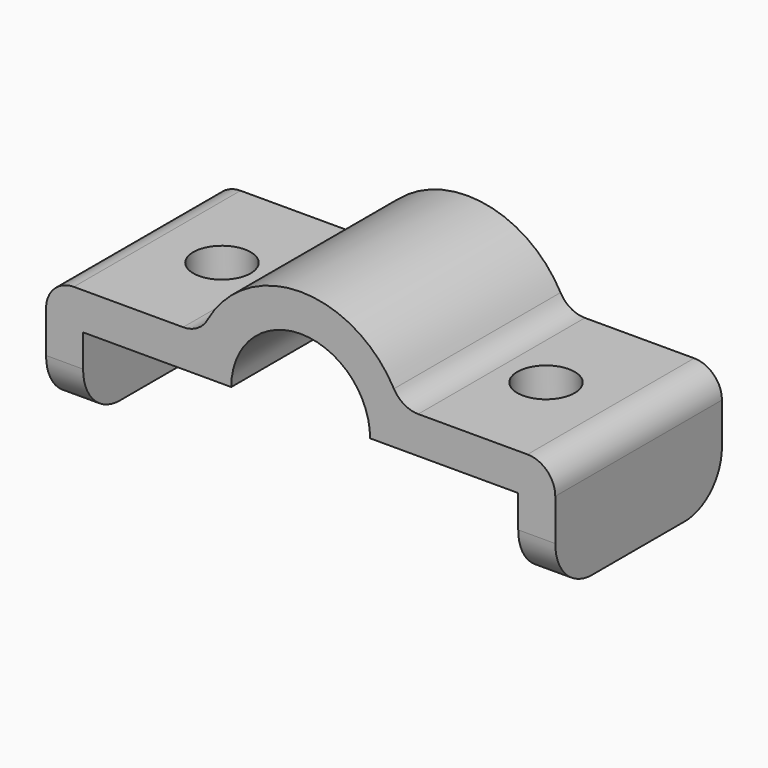
from build123d import *

# Parameters (mm, degrees)
F1_DEPTH = 28.575
F2_R     = 12.7
F3_R     = 7.874
F4_DEPTH = 10.16


with BuildPart() as f1:
    # F0 (on Front) → F1 (new body, symmetric)
    with BuildSketch(Plane.XZ):
        with BuildLine():
            ThreePointArc((-19.05, 0), (0, 19.05), (19.05, 0))
            Line((19.05, 0), (59.69, 0))
            Line((59.69, 0), (59.69, -21.59))
            Line((59.69, -21.59), (69.85, -21.59))
            Line((69.85, -21.59), (69.85, 2.54))
            ThreePointArc((69.85, 2.54), (67.618154, 7.928154), (62.23, 10.16))
            Line((62.23, 10.16), (32.254, 10.16))
            ThreePointArc((32.254, 10.16), (28.378867, 11.218922), (25.580758, 14.101379))
            ThreePointArc((25.580758, 14.101379), (0, 29.21), (-25.580758, 14.101379))
            ThreePointArc((-25.580758, 14.101379), (-28.378867, 11.218922), (-32.254, 10.16))
            Line((-32.254, 10.16), (-62.23, 10.16))
            ThreePointArc((-62.23, 10.16), (-67.618154, 7.928154), (-69.85, 2.54))
            Line((-69.85, 2.54), (-69.85, -21.59))
            Line((-69.85, -21.59), (-59.69, -21.59))
            Line((-59.69, -21.59), (-59.69, 0))
            Line((-59.69, 0), (-19.05, 0))
        make_face()
    extrude(amount=F1_DEPTH, both=True)

    # F2
    f2_edges = [f1.edges().sort_by_distance(p)[0] for p in [
        (64.77, -28.575, -21.59),
        (-64.77, -28.575, -21.59),
        (64.77, 28.575, -21.59),
        (-64.77, 28.575, -21.59),
    ]]
    fillet(f2_edges, radius=F2_R)

    # F3 (on face) → F4 (cut)
    with BuildSketch(Plane.XY.offset(10.16)):
        with Locations((-44.45, 0)):
            Circle(F3_R)
        with Locations((44.45, 0)):
            Circle(F3_R)
    extrude(amount=-F4_DEPTH, mode=Mode.SUBTRACT)


solid = f1.part
